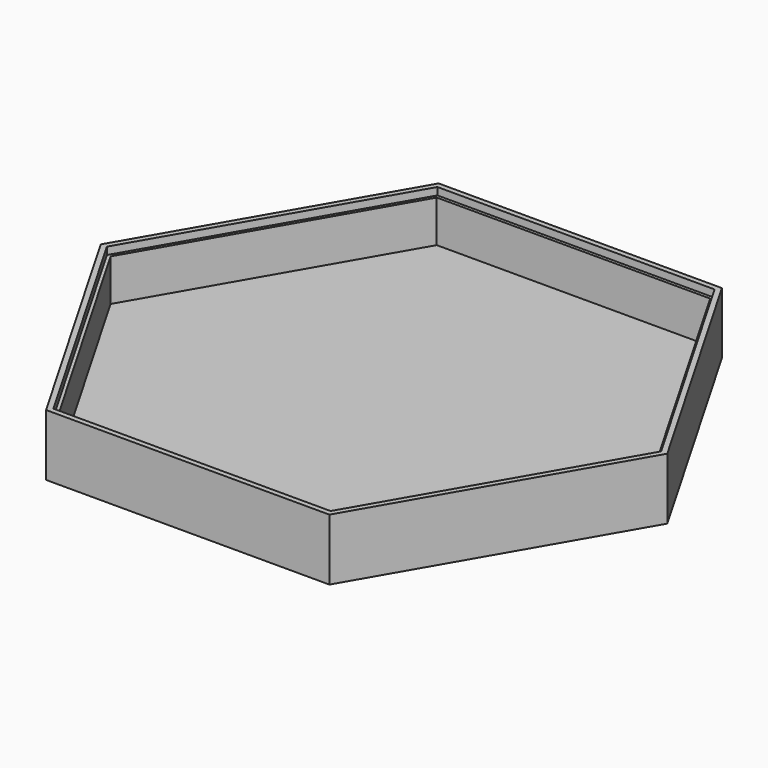
from build123d import *

# Parameters (mm, degrees)
EXTRUDE_DEPTH    = 5
EXTRUDE001_DEPTH = 25
EXTRUDE002_DEPTH = 22


with BuildPart() as extrude_body:
    # Sketch → Extrude (new body)
    with BuildSketch(Plane.XY):
        Polygon((115, 0), (57.5, 99.592921), (-57.5, 99.592921), (-115, 0), (-57.5, -99.592921), (57.5, -99.592921), align=None)
    extrude(amount=EXTRUDE_DEPTH)


with BuildPart() as extrude001:
    # Sketch001 (on Sketch) → Extrude001 (new body)
    with BuildSketch(Plane.XY):
        Polygon((115, 0), (57.5, 99.592921), (-57.5, 99.592921), (-115, 0), (-57.5, -99.592921), (57.5, -99.592921), align=None)
        Polygon((112.5, 0), (56.25, 97.427858), (-56.25, 97.427858), (-112.5, 0), (-56.25, -97.427858), (56.25, -97.427858), align=None, mode=Mode.SUBTRACT)
    extrude(amount=EXTRUDE001_DEPTH)


with BuildPart() as fusion:
    # Sketch002 (on Sketch) → Extrude002 (new body)
    with BuildSketch(Plane.XY):
        Polygon((112.5, 0), (56.25, 97.427858), (-56.25, 97.427858), (-112.5, 0), (-56.25, -97.427858), (56.25, -97.427858), align=None)
        Polygon((111, 0), (55.5, 96.12882), (-55.5, 96.12882), (-111, 0), (-55.5, -96.12882), (55.5, -96.12882), align=None, mode=Mode.SUBTRACT)
    extrude(amount=EXTRUDE002_DEPTH)

    # Fusion: union Extrude body, Extrude001
    add(extrude_body.part)
    add(extrude001.part)


solid = fusion.part
